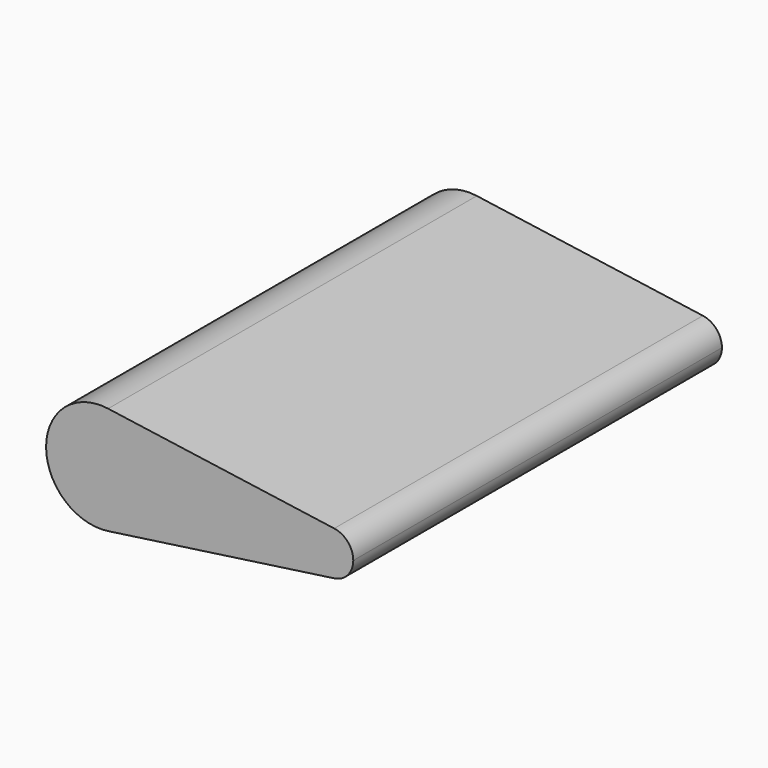
from build123d import *

# Parameters (mm, degrees)
F1_DEPTH = 75


with BuildPart() as f1:
    # F0 (on Front) → F1 (new body)
    with BuildSketch(Plane.XZ):
        with BuildLine():
            ThreePointArc((-24.71214, 8.773373), (-19.262639, 5.810484), (-17.091455, 0))
            ThreePointArc((-17.091455, 0), (-19.262639, -5.810484), (-24.71214, -8.773373))
            Line((-24.71214, -8.773373), (12.083577, -3.573353))
            ThreePointArc((12.083577, -3.573353), (7.969726, 0), (12.083577, 3.573353))
            Line((12.083577, 3.573353), (-24.71214, 8.773373))
        make_face()
        with BuildLine():
            ThreePointArc((-24.71214, -8.773373), (-19.262639, -5.810484), (-17.091455, 0))
            ThreePointArc((-17.091455, 0), (-19.262639, 5.810484), (-24.71214, 8.773373))
            ThreePointArc((-24.71214, 8.773373), (-34.812555, 0), (-24.71214, -8.773373))
        make_face()
        with BuildLine():
            ThreePointArc((15.187445, 0), (14.303132, 2.366582), (12.083577, 3.573353))
            ThreePointArc((12.083577, 3.573353), (7.969726, 0), (12.083577, -3.573353))
            ThreePointArc((12.083577, -3.573353), (14.303132, -2.366582), (15.187445, 0))
        make_face()
    extrude(amount=F1_DEPTH)


solid = f1.part
